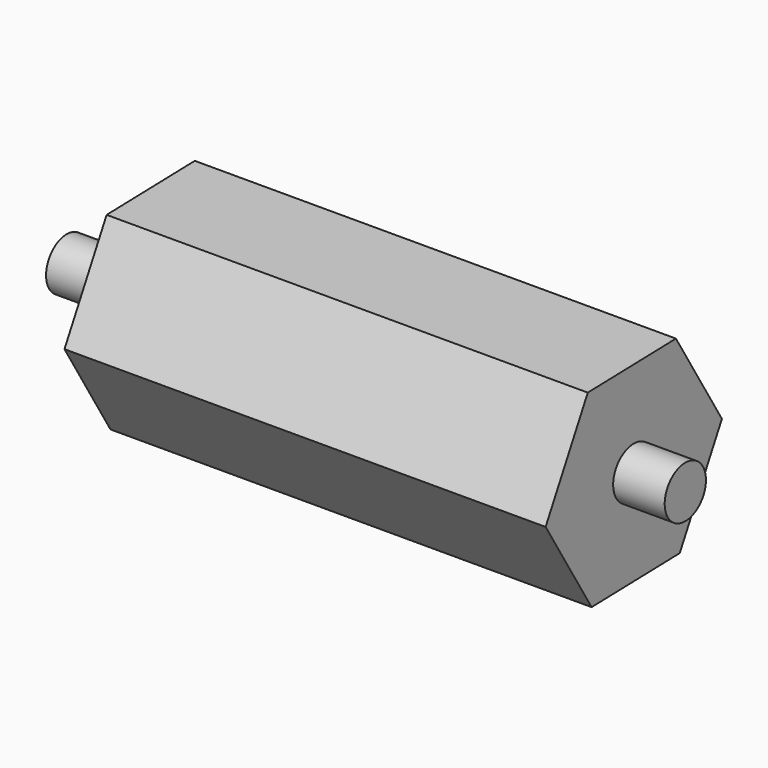
from build123d import *

# Parameters (mm, degrees)
F1_DEPTH = 14
F2_R     = 1.5
F3_DEPTH = 3
F4_R     = 1.5
F5_DEPTH = 5


with BuildPart() as f1:
    # F0 (on Right) → F1 (new body, symmetric)
    with BuildSketch(Plane.YZ):
        Polygon((-3.3458015204, 5.4726269304), (-6.4123347074, -0.1612356475), (-3.0665331869, -5.6338625779), (3.3458015204, -5.4726269304), (6.4123347074, 0.1612356475), (3.0665331869, 5.6338625779), align=None)
    extrude(amount=F1_DEPTH, both=True)

    # F2 (on face) → F3 (join)
    with BuildSketch(Plane.YZ.offset(14)):
        Circle(F2_R)
    extrude(amount=F3_DEPTH)

    # F4 (on face) → F5 (join)
    with BuildSketch(Plane(origin=(-14, 0, 0), x_dir=(0, -1, 0), z_dir=(-1, 0, 0))):
        Circle(F4_R)
    extrude(amount=F5_DEPTH)


solid = f1.part
